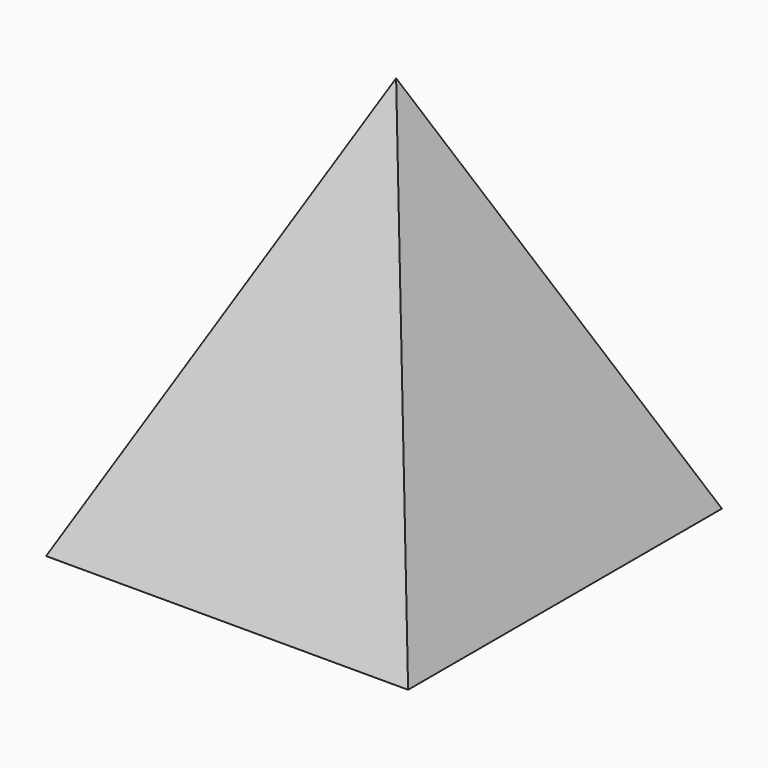
from build123d import *

# Parameters (mm, degrees)
F1_DEPTH = 52.578
F3_DEPTH = 119.634


with BuildPart() as f1:
    # F0 (on Front) → F1 (new body)
    with BuildSketch(Plane.XZ):
        Polygon((-63.947983, 31.916842), (-90.26742, -22.562411), (-41.740969, -22.562411), align=None)
    extrude(amount=F1_DEPTH)

    # F2 (on Right) → F3 (intersect)
    with BuildSketch(Plane.YZ):
        Polygon((-26.827654, 31.916842), (-52.578, -22.562411), (0, -22.562411), align=None)
    extrude(amount=-F3_DEPTH, mode=Mode.INTERSECT)


solid = f1.part
